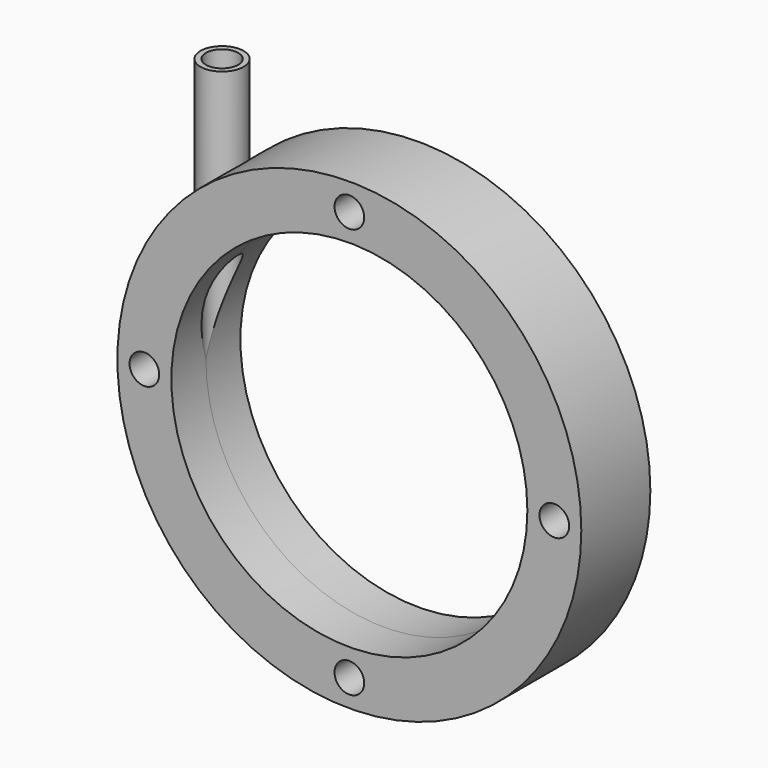
from build123d import *

# Parameters (mm, degrees)
SKETCH001_R           = 43
PAD_DEPTH             = 8
SKETCH002_W           = 4
SKETCH002_H           = 50
SKETCH003_R           = 33
POCKET_DEPTH          = 8.001
POCKET_DEPTH_BACK     = 8.001
SKETCH004_W           = 3
SKETCH004_H           = 50
SKETCH013_R           = 2.75
POCKET005_DEPTH       = 271.35174
POLARPATTERN003_COUNT = 4


with BuildPart() as part:
    # Sketch001 → Pad (new body, symmetric)
    with BuildSketch(Plane.XZ):
        Circle(SKETCH001_R)
    extrude(amount=PAD_DEPTH, both=True)

    # Sketch002 → Revolution (revolve)
    with BuildSketch(Plane.XZ):
        with Locations((-28, 25)):
            Rectangle(SKETCH002_W, SKETCH002_H)
    revolve(axis=Axis((-30, 0, 40.402922), (0, 0, 1)))

    # Sketch003 → Pocket (cut, two sides)
    with BuildSketch(Plane.XZ) as pocket_sk:
        Circle(SKETCH003_R)
    extrude(amount=-POCKET_DEPTH, mode=Mode.SUBTRACT)
    extrude(pocket_sk.sketch, amount=POCKET_DEPTH_BACK, mode=Mode.SUBTRACT)

    # Sketch004 → Groove (revolve, cut)
    with BuildSketch(Plane.XZ):
        with Locations((-31.5, 25)):
            Rectangle(SKETCH004_W, SKETCH004_H)
    revolve(axis=Axis((-30, 0, 22.276785), (0, 0, 1)), mode=Mode.SUBTRACT)

    # Sketch013 (on Face4 of Groove) → Pocket005 (cut, through all)
    with BuildSketch(Plane.XZ.offset(8)):
        with Locations((38, 0)):
            Circle(SKETCH013_R)
    pocket005 = extrude(amount=-POCKET005_DEPTH, mode=Mode.SUBTRACT)

    # PolarPattern003: Pocket005 ×4 about axis
    polarpattern003_axis = Axis((0, -8, 0), (0, -1, 0))
    for i in range(1, POLARPATTERN003_COUNT):
        add(pocket005.rotate(polarpattern003_axis, i * 360 / POLARPATTERN003_COUNT), mode=Mode.SUBTRACT)


solid = part.part
